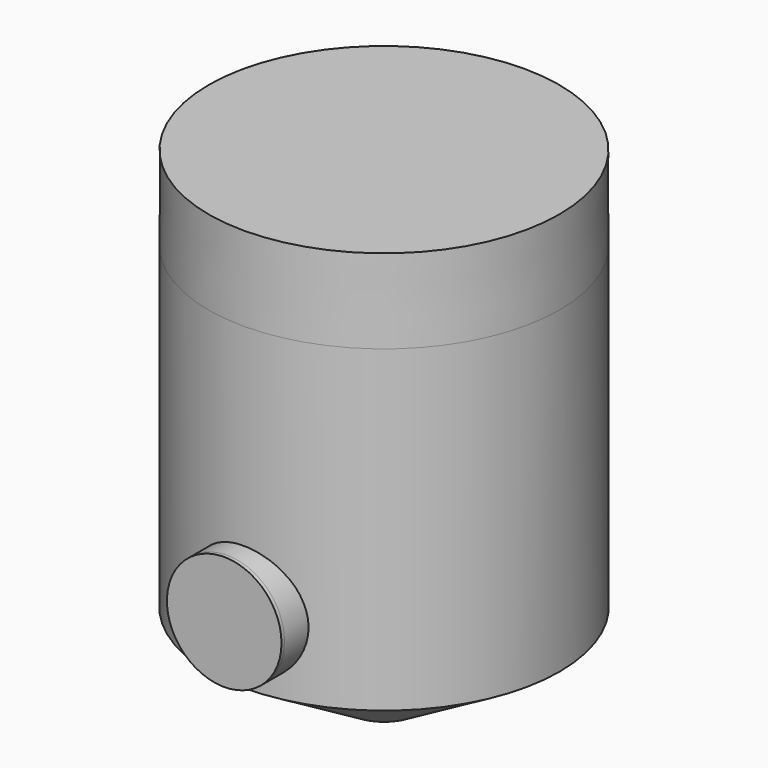
from build123d import *

# Parameters (mm, degrees)
F3_R     = 380
F4_DEPTH = 25
F5_DEPTH = 500


with BuildPart() as f1:
    # F0 (on Front) → F1 (revolve)
    with BuildSketch(Plane.XZ):
        Polygon((0, 3220), (0, 0), (235, 0), (1165, 550), (1165, 2662.513172), (1163.106203, 3220), align=None)
    revolve(axis=Axis((0, 0, 1610), (0, 0, -1)))


with BuildPart() as f4:
    # F3 (on offset) → F4 (new body)
    with BuildSketch(Plane.XZ.offset(1300)):
        with Locations((0, 1000)):
            Circle(F3_R)
    extrude(amount=F4_DEPTH)


with BuildPart() as f5:
    # F3 (on offset) → F5 (new body)
    with BuildSketch(Plane.XZ.offset(1300)):
        with Locations((0, 1000)):
            Circle(F3_R)
    extrude(amount=-F5_DEPTH)


solid = Compound([f1.part, f4.part, f5.part])
